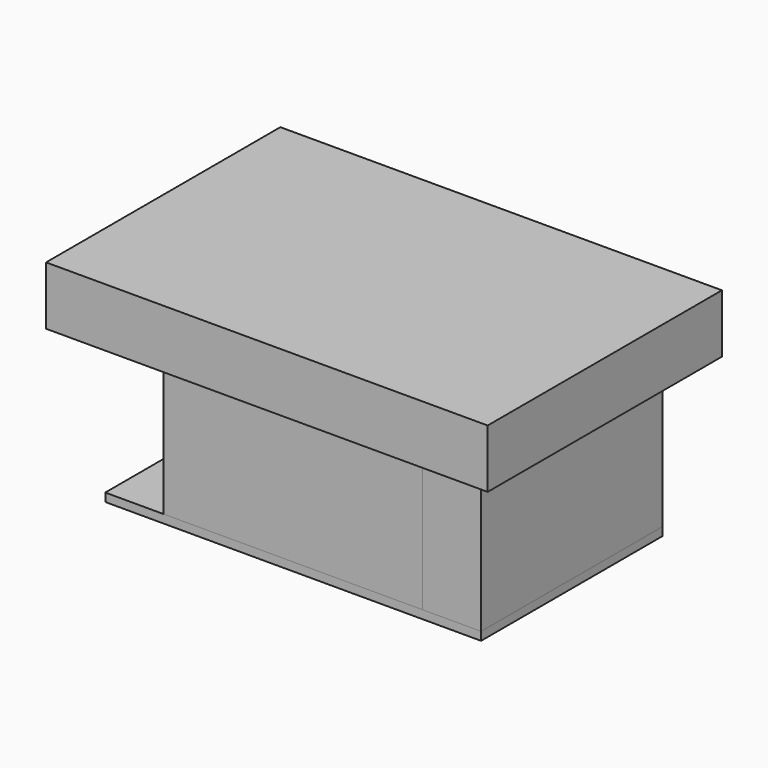
from build123d import *

# Parameters (mm, degrees)
SKETCH001_W   = 1143
SKETCH001_H   = 690.56
SKETCH001_R   = 24.5
PAD_DEPTH     = 25.4
SKETCH002_W   = 152.4
SKETCH002_H   = 665.16
PAD001_DEPTH  = 411.16
SKETCH003_W   = 787.4
SKETCH003_H   = 177.8
SKETCH003_W_2 = 762
SKETCH003_H_2 = 152.4
PAD002_DEPTH  = 411.16
SKETCH004_W   = 1143
SKETCH004_H   = 690.56
SKETCH004_W_2 = 787.4
SKETCH004_H_2 = 334.96
PAD003_DEPTH  = 25.4
SKETCH005_W   = 787.4
SKETCH005_H   = 369.88
POCKET_DEPTH  = 12.7
SKETCH006_W   = 1143
SKETCH006_H   = 690.56
SKETCH006_W_2 = 943
SKETCH006_H_2 = 490.56
PAD004_DEPTH  = 10
SKETCH007_W   = 1343
SKETCH007_H   = 890.56
PAD005_DEPTH  = 177.8


with BuildPart() as hive_base:
    # Sketch001 → Pad (new body)
    with BuildSketch(Plane.XY):
        Rectangle(SKETCH001_W, SKETCH001_H)
        with Locations((-196.85, 0)):
            Circle(SKETCH001_R, mode=Mode.SUBTRACT)
        with Locations((196.85, 0)):
            Circle(SKETCH001_R, mode=Mode.SUBTRACT)
    extrude(amount=PAD_DEPTH)


with BuildPart() as body002:
    # Sketch002 → Pad001 (new body)
    with BuildSketch(Plane.XY):
        Polygon((-393.7, 167.48), (-393.7, 345.28), (-571.5, 345.28), (-571.5, -345.28), (-393.7, -345.28), (-393.7, -167.48), align=None)
        with Locations((-482.6, 0)):
            Rectangle(SKETCH002_W, SKETCH002_H, mode=Mode.SUBTRACT)
    extrude(amount=PAD001_DEPTH)


with BuildPart() as body002_1:
    # Body001 placement: moved
    add(body002.part.moved(Location((0, 0, 25.4))))


with BuildPart() as body002_2:
    # Body002 placement: moved
    add(body002_1.part.moved(Location((965.2, 0, 0))))


with BuildPart() as back_wall:
    # Sketch003 → Pad002 (new body)
    with BuildSketch(Plane.XY):
        with Locations((0, 256.38)):
            Rectangle(SKETCH003_W, SKETCH003_H)
        with Locations((0, 256.38)):
            Rectangle(SKETCH003_W_2, SKETCH003_H_2, mode=Mode.SUBTRACT)
    extrude(amount=PAD002_DEPTH)


with BuildPart() as back_wall_1:
    # Body003 placement: moved
    add(back_wall.part.moved(Location((0, 0, 25.4))))


with BuildPart() as back_wall_2:
    # Body004 placement: moved
    add(back_wall_1.part.moved(Location((0, -512.76, 0))))


with BuildPart() as hive_top:
    # Sketch004 → Pad003 (new body)
    with BuildSketch(Plane.XY):
        Rectangle(SKETCH004_W, SKETCH004_H)
        Rectangle(SKETCH004_W_2, SKETCH004_H_2, mode=Mode.SUBTRACT)
    extrude(amount=PAD003_DEPTH)

    # Sketch005 (on Face10 of Pad003) → Pocket (cut)
    with BuildSketch(Plane.XY.offset(25.4)):
        Rectangle(SKETCH005_W, SKETCH005_H)
    extrude(amount=-POCKET_DEPTH, mode=Mode.SUBTRACT)


with BuildPart() as hive_top_1:
    # Body005 placement: moved
    add(hive_top.part.moved(Location((0, 0, 436.56))))


with BuildPart() as neoprene_gasket:
    # Sketch006 → Pad004 (new body)
    with BuildSketch(Plane.XY):
        Rectangle(SKETCH006_W, SKETCH006_H)
        Rectangle(SKETCH006_W_2, SKETCH006_H_2, mode=Mode.SUBTRACT)
    extrude(amount=PAD004_DEPTH)


with BuildPart() as neoprene_gasket_1:
    # Body006 placement: moved
    add(neoprene_gasket.part.moved(Location((0, 0, 461.96))))


with BuildPart() as lid:
    # Sketch007 → Pad005 (new body)
    with BuildSketch(Plane.XY):
        Rectangle(SKETCH007_W, SKETCH007_H)
    extrude(amount=PAD005_DEPTH)


with BuildPart() as lid_1:
    # Body007 placement: moved
    add(lid.part.moved(Location((0, 0, 471.96))))


solid = Compound([hive_base.part, body002_2.part, back_wall_2.part, hive_top_1.part, neoprene_gasket_1.part, lid_1.part])
